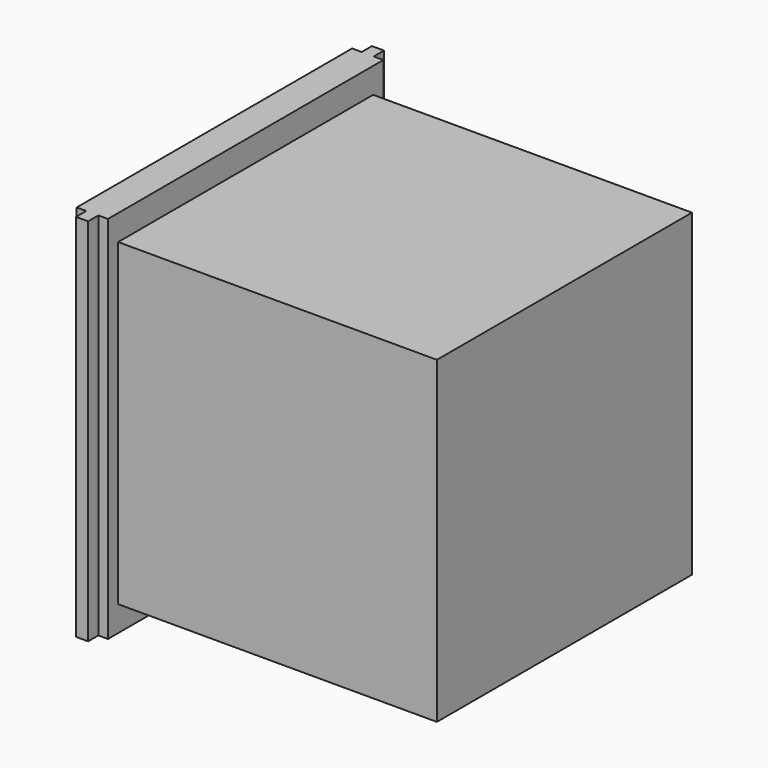
from build123d import *

# Parameters (mm, degrees)
BOX_W     = 50
BOX_H     = 50
BOX_DEPTH = 50
PAD_DEPTH = 29


with BuildPart() as cube:
    # Box → Box (new body)
    with BuildSketch(Plane(origin=(2.45, -25, -25), x_dir=(1, 0, 0), z_dir=(0, 0, 1))):
        with Locations((25, 25)):
            Rectangle(BOX_W, BOX_H)
    extrude(amount=BOX_DEPTH)


with BuildPart() as fusion:
    # Sketch → Pad (new body, symmetric)
    with BuildSketch(Plane.XY):
        Polygon((-2.45, 27), (-0.95, 27), (-0.95, 29), (0.95, 29), (0.95, 27), (2.45, 27), (2.45, 0), (-2.45, 0), align=None)
    pad = extrude(amount=PAD_DEPTH, both=True)

    # Mirrored: Pad across XZ
    add(pad.mirror(Plane.XZ))

    # Fusion: union Cube
    add(cube.part)


solid = fusion.part
